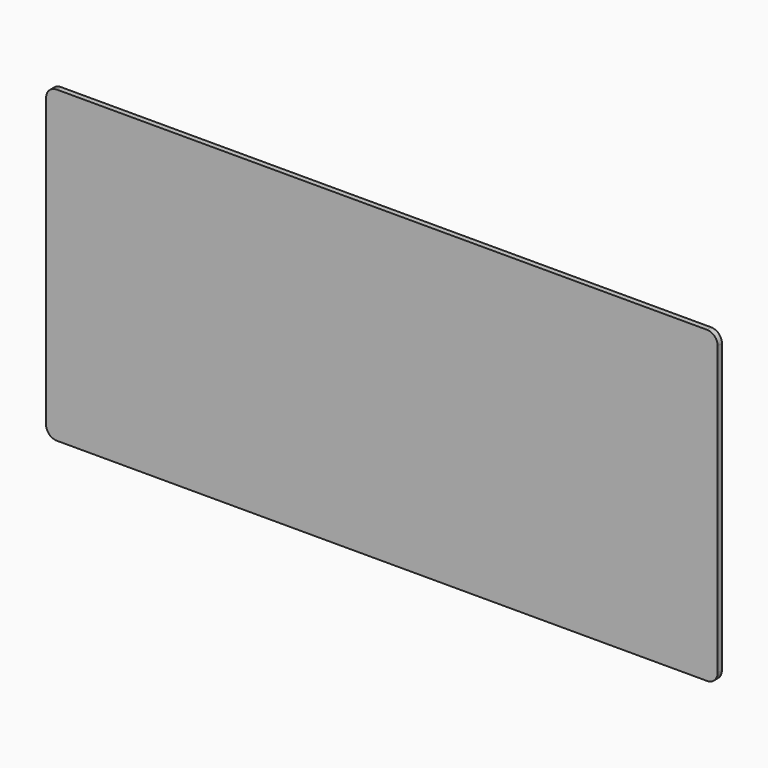
from build123d import *

# Parameters (mm, degrees)
F1_DEPTH = 1.5875


with BuildPart() as f1:
    # F0 (on Front) → F1 (new body, symmetric)
    with BuildSketch(Plane.XZ):
        with BuildLine():
            Line((-193.675, -92.075), (193.675, -92.075))
            ThreePointArc((193.675, -92.075), (198.165128, -90.215128), (200.025, -85.725))
            Line((200.025, -85.725), (200.025, 85.725))
            ThreePointArc((200.025, 85.725), (198.165128, 90.215128), (193.675, 92.075))
            Line((193.675, 92.075), (-193.675, 92.075))
            ThreePointArc((-193.675, 92.075), (-198.165128, 90.215128), (-200.025, 85.725))
            Line((-200.025, 85.725), (-200.025, -85.725))
            ThreePointArc((-200.025, -85.725), (-198.165128, -90.215128), (-193.675, -92.075))
        make_face()
    extrude(amount=F1_DEPTH, both=True)


solid = f1.part
